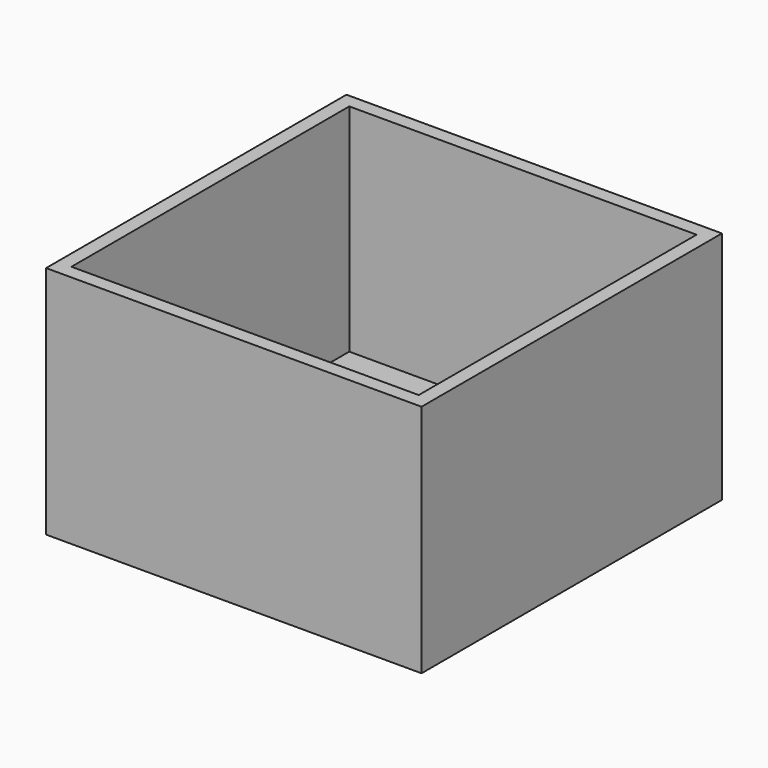
from build123d import *

# Parameters (mm, degrees)
F0_W     = 80
F0_H     = 80
F0_W_2   = 74
F0_H_2   = 74
F1_DEPTH = 4
F2_DEPTH = 46


with BuildPart() as f1:
    # F0 (on Top) → F1 (new body)
    with BuildSketch(Plane.XY):
        Rectangle(F0_W, F0_H)
        Rectangle(F0_W_2, F0_H_2, mode=Mode.SUBTRACT)
        Rectangle(F0_W_2, F0_H_2)
    extrude(amount=-F1_DEPTH)

    # F0 (on Top) → F2 (join)
    with BuildSketch(Plane.XY):
        Rectangle(F0_W, F0_H)
        Rectangle(F0_W_2, F0_H_2, mode=Mode.SUBTRACT)
    extrude(amount=F2_DEPTH)


solid = f1.part
